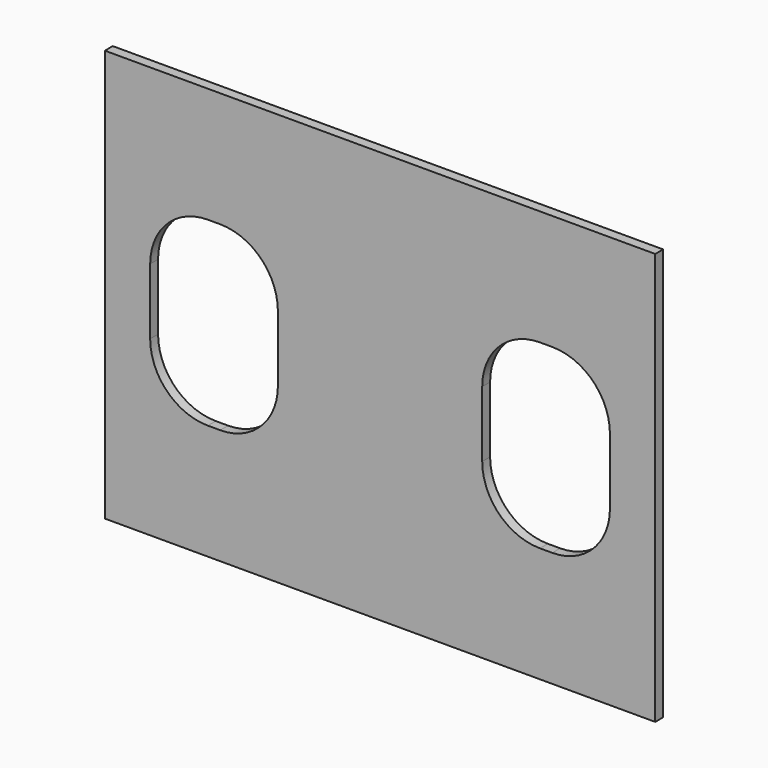
from build123d import *

# Parameters (mm, degrees)
F0_W     = 668
F0_H     = 500
F1_DEPTH = 12


with BuildPart() as f1:
    # F0 (on Front) → F1 (new body)
    with BuildSketch(Plane.XZ):
        with Locations((334, 250)):
            Rectangle(F0_W, F0_H)
        with BuildLine():
            Line((140, 140), (125, 140))
            ThreePointArc((125, 140), (75.502525, 160.502525), (55, 210))
            Line((55, 210), (55, 290))
            ThreePointArc((55, 290), (75.502525, 339.497475), (125, 360))
            Line((125, 360), (140, 360))
            ThreePointArc((140, 360), (189.497475, 339.497475), (210, 290))
            Line((210, 290), (210, 210))
            ThreePointArc((210, 210), (189.497475, 160.502525), (140, 140))
        make_face(mode=Mode.SUBTRACT)
        with BuildLine():
            Line((543, 140), (528, 140))
            ThreePointArc((528, 140), (478.502525, 160.502525), (458, 210))
            Line((458, 210), (458, 290))
            ThreePointArc((458, 290), (478.502525, 339.497475), (528, 360))
            Line((528, 360), (543, 360))
            ThreePointArc((543, 360), (592.497475, 339.497475), (613, 290))
            Line((613, 290), (613, 210))
            ThreePointArc((613, 210), (592.497475, 160.502525), (543, 140))
        make_face(mode=Mode.SUBTRACT)
    extrude(amount=F1_DEPTH)


solid = f1.part
